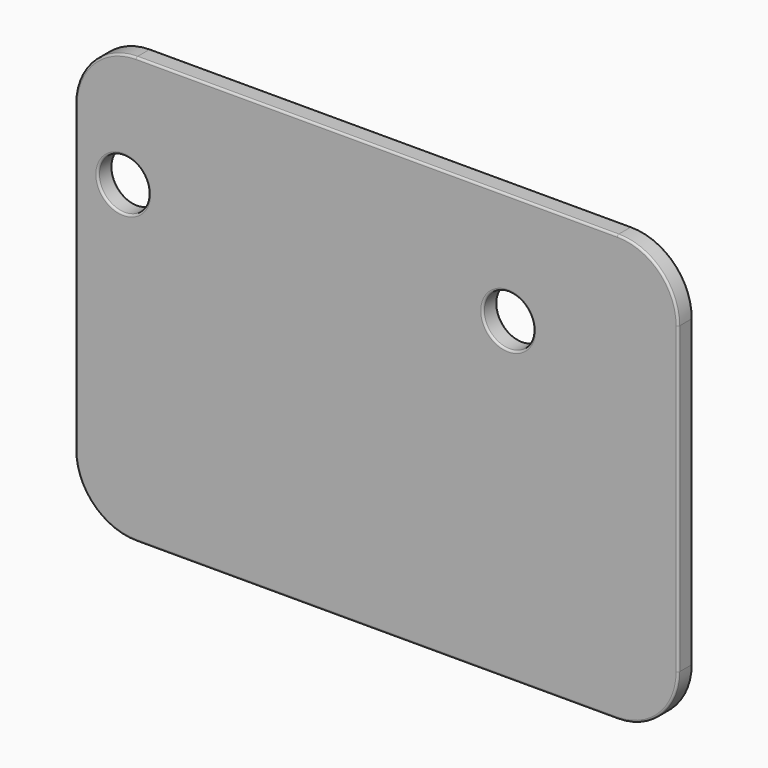
from build123d import *

# Parameters (mm, degrees)
F0_R     = 12.5
F1_DEPTH = 9
F2_R     = 1


with BuildPart() as f1:
    # F0 (on Front) → F1 (new body)
    with BuildSketch(Plane.XZ):
        with BuildLine():
            Line((115.222123, 151.099584), (-121.777877, 151.099584))
            ThreePointArc((-121.777877, 151.099584), (-142.991081, 142.312788), (-151.777877, 121.099584))
            Line((-151.777877, 121.099584), (-151.777877, -28.900416))
            ThreePointArc((-151.777877, -28.900416), (-142.991081, -50.113619), (-121.777877, -58.900416))
            Line((-121.777877, -58.900416), (115.222123, -58.900416))
            ThreePointArc((115.222123, -58.900416), (136.435326, -50.113619), (145.222123, -28.900416))
            Line((145.222123, -28.900416), (145.222123, 121.099584))
            ThreePointArc((145.222123, 121.099584), (136.435326, 142.312788), (115.222123, 151.099584))
        make_face()
        with Locations((-128.135592, 93.860589)):
            Circle(F0_R, mode=Mode.SUBTRACT)
        with Locations((61.46612, 96.360147)):
            Circle(F0_R, mode=Mode.SUBTRACT)
    extrude(amount=F1_DEPTH)

    # F2
    f2_edges = [f1.edges().sort_by_distance(p)[0] for p in [
        (145.222123, 0, 46.099584),
        (136.435326, 0, 142.312788),
        (-3.277877, 0, 151.099584),
        (-142.991081, 0, 142.312788),
        (-151.777877, 0, 46.099584),
        (-142.991081, 0, -50.113619),
        (-3.277877, 0, -58.900416),
        (136.435326, 0, -50.113619),
        (-140.635592, 0, 93.860589),
        (48.96612, 0, 96.360147),
        (145.222123, -9, 46.099584),
        (136.435326, -9, 142.312788),
        (-3.277877, -9, 151.099584),
        (-142.991081, -9, 142.312788),
        (-151.777877, -9, 46.099584),
        (-142.991081, -9, -50.113619),
        (-3.277877, -9, -58.900416),
        (136.435326, -9, -50.113619),
        (-140.635592, -9, 93.860589),
        (48.96612, -9, 96.360147),
    ]]
    fillet(f2_edges, radius=F2_R)


solid = f1.part
